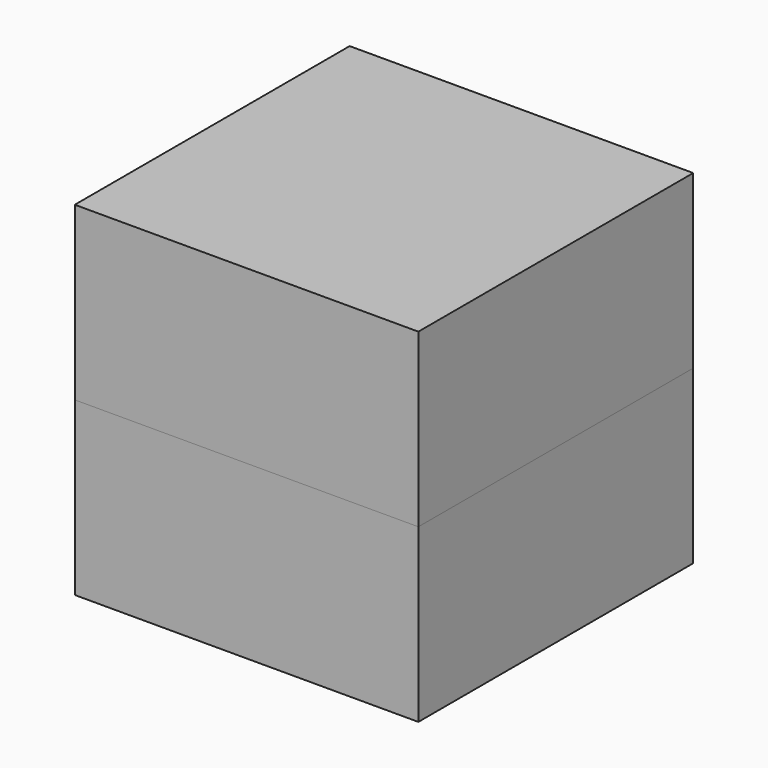
from build123d import *

# Parameters (mm, degrees)
F0_W     = 20
F0_H     = 20
F1_DEPTH = 10
F2_W     = 20
F2_H     = 20
F3_DEPTH = 10


with BuildPart() as f1:
    # F0 (on Top) → F1 (new body)
    with BuildSketch(Plane.XY):
        Rectangle(F0_W, F0_H)
    extrude(amount=F1_DEPTH)


with BuildPart() as f3:
    # F2 (on face) → F3 (new body)
    with BuildSketch(Plane.XY.offset(10)):
        Rectangle(F2_W, F2_H)
    extrude(amount=F3_DEPTH)


solid = Compound([f1.part, f3.part])
